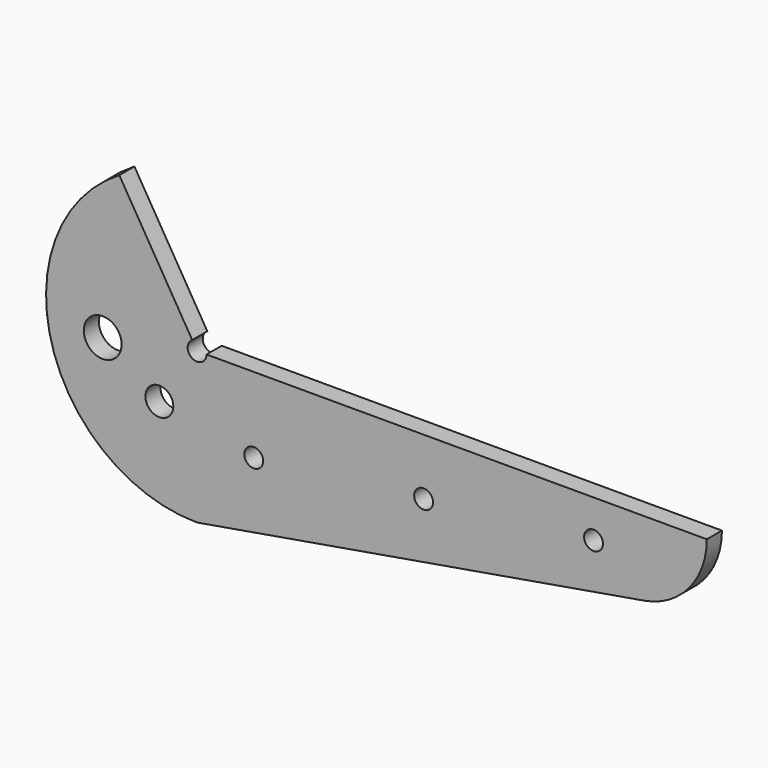
from build123d import *

# Parameters (mm, degrees)
F0_R     = 2.347977
F0_R_2   = 3.175
F0_R_3   = 1.5875
F1_DEPTH = 3.175


with BuildPart() as f1:
    # F0 (on Front) → F1 (new body)
    with BuildSketch(Plane.XZ):
        with BuildLine():
            Line((-85.725, -25.4), (-10.55478, -12.517509))
            ThreePointArc((-10.55478, -12.517509), (-2.990873, -8.186748), (0, 0))
            Line((0, 0), (-84.1375, 0))
            ThreePointArc((-84.1375, 0), (-86.506722, -1.38169), (-86.542623, 1.360753))
            Line((-86.542623, 1.360753), (-98.806967, 21.772049))
            ThreePointArc((-98.806967, 21.772049), (-110.201214, -6.787855), (-85.725, -25.4))
        make_face()
        with Locations((-92.075, -9.525)):
            Circle(F0_R, mode=Mode.SUBTRACT)
        with Locations((-101.6, -3.175)):
            Circle(F0_R_2, mode=Mode.SUBTRACT)
        with Locations((-76.2, -12.7)):
            Circle(F0_R_3, mode=Mode.SUBTRACT)
        with Locations((-47.625, -9.525)):
            Circle(F0_R_3, mode=Mode.SUBTRACT)
        with Locations((-19.05, -6.35)):
            Circle(F0_R_3, mode=Mode.SUBTRACT)
    extrude(amount=F1_DEPTH)


solid = f1.part
